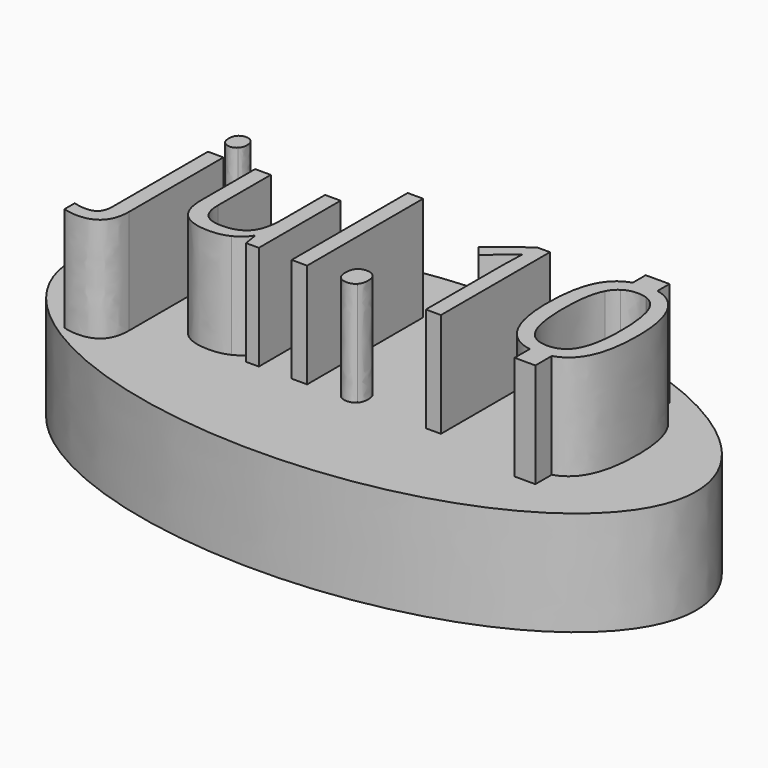
from build123d import *

# Parameters (mm, degrees)
F1_DEPTH = 25.4
F2_W     = 3.7600229511
F2_H     = 35.2311977096
F3_DEPTH = 25.4


with BuildPart() as f1:
    # F0 (on Top) → F1 (new body)
    with BuildSketch(Plane.XY):
        with BuildLine():
            add(Edge.make_bspline(
                [(-75.8589357138, 0), (-75.8589357138, -67.9441261937), (37.9294678569, -33.9720630968), (151.7178714275, 0), (37.9294678569, 33.9720630968), (-75.8589357138, 67.9441261937), (-75.8589357138, 0)],
                knots=[0, 0, 0, 2.0943951024, 2.0943951024, 4.1887902048, 4.1887902048, 6.2831853072, 6.2831853072, 6.2831853072], degree=2, weights=[1, 0.5, 1, 0.5, 1, 0.5, 1]))
        make_face()
    extrude(amount=F1_DEPTH)

    # F2 (on face) → F3 (join)
    with BuildSketch(Plane.XY.offset(25.4)):
        with BuildLine():
            Line((49.1091273725, 25.3086201847), (43.3321334422, 25.3086201847))
            Line((43.3321334422, 25.3086201847), (43.3321334422, 21.3823506841))
            add(Edge.make_bspline(
                [(43.3321334422, 21.3823506841), (44.8894074559, 21.8723493721), (46.7770176638, 21.8723493721)],
                knots=[0.6580723607, 0.6580723607, 0.6580723607, 1, 1, 1], degree=2))
            add(Edge.make_bspline(
                [(46.7770176638, 21.8723493721), (48.0110450801, 21.8723493721), (49.1091273725, 21.6431793101)],
                knots=[0, 0, 0, 0.2289437199, 0.2289437199, 0.2289437199], degree=2))
            Line((49.1091273725, 21.6431793101), (49.1091273725, 25.3086201847))
        make_face()
        with BuildLine():
            add(Edge.make_bspline(
                [(43.3321334422, 21.3823506841), (44.8894074559, 21.8723493721), (46.7770176638, 21.8723493721)],
                knots=[0.6580723607, 0.6580723607, 0.6580723607, 1, 1, 1], degree=2))
            Line((43.3321334422, 21.3823506841), (43.3321334422, 17.641407551))
            add(Edge.make_bspline(
                [(46.7770176638, 18.6122138653), (44.7562380644, 18.6122138653), (43.3321334422, 17.641407551)],
                knots=[0, 0, 0, 0.5447858889, 0.5447858889, 0.5447858889], degree=2))
            add(Edge.make_bspline(
                [(49.1091273725, 18.2229892834), (48.0648114294, 18.6122138653), (46.7770176638, 18.6122138653)],
                knots=[0.6575037487, 0.6575037487, 0.6575037487, 1, 1, 1], degree=2))
            Line((49.1091273725, 18.2229892834), (49.1091273725, 21.6431793101))
            add(Edge.make_bspline(
                [(46.7770176638, 21.8723493721), (48.0110450801, 21.8723493721), (49.1091273725, 21.6431793101)],
                knots=[0, 0, 0, 0.2289437199, 0.2289437199, 0.2289437199], degree=2))
        make_face()
        with BuildLine():
            Line((43.3321334422, 17.641407551), (43.3321334422, 21.3823506841))
            add(Edge.make_bspline(
                [(38.5614761868, 17.6812640595), (40.3350110439, 20.4393014649), (43.3321334422, 21.3823506841)],
                knots=[0, 0, 0, 0.6580723607, 0.6580723607, 0.6580723607], degree=2))
            add(Edge.make_bspline(
                [(35.8664308346, 4.8471972813), (35.8664308346, 13.490178747), (38.5614761868, 17.6812640595)],
                knots=[0, 0, 0, 1, 1, 1], degree=2))
            add(Edge.make_bspline(
                [(38.6520355065, -7.8709535678), (35.8664308346, -3.5349733438), (35.8664308346, 4.8471972813)],
                knots=[0, 0, 0, 1, 1, 1], degree=2))
            add(Edge.make_bspline(
                [(45.111361891, -12.0927522689), (40.9856034206, -11.5033083055), (38.6520355065, -7.8709535678)],
                knots=[0.1622759907, 0.1622759907, 0.1622759907, 1, 1, 1], degree=2))
            Line((45.111361891, -12.0927522689), (45.111361891, -8.7784201274))
            add(Edge.make_bspline(
                [(41.3688150954, -5.6721732871), (42.6597137841, -8.1769020861), (45.111361891, -8.7784201274)],
                knots=[0, 0, 0, 0.7598470375, 0.7598470375, 0.7598470375], degree=2))
            add(Edge.make_bspline(
                [(39.6699222591, 4.8471972813), (39.6699222591, -2.3758140525), (41.3688150954, -5.6721732871)],
                knots=[0, 0, 0, 1, 1, 1], degree=2))
            add(Edge.make_bspline(
                [(41.3688150954, 15.3412112402), (39.6699222591, 12.0702086151), (39.6699222591, 4.8471972813)],
                knots=[0, 0, 0, 1, 1, 1], degree=2))
            add(Edge.make_bspline(
                [(43.3321334422, 17.641407551), (42.1421750878, 16.8302177928), (41.3688150954, 15.3412112402)],
                knots=[0.5447858889, 0.5447858889, 0.5447858889, 1, 1, 1], degree=2))
        make_face()
        with BuildLine():
            add(Edge.make_bspline(
                [(49.1091273725, 21.6431793101), (52.8073430224, 20.8713607354), (54.9635801585, 17.5001454202)],
                knots=[0.2289437199, 0.2289437199, 0.2289437199, 1, 1, 1], degree=2))
            Line((49.1091273725, 21.6431793101), (49.1091273725, 18.2229892834))
            add(Edge.make_bspline(
                [(52.2214439601, 15.294120394), (51.1139424464, 17.4757792899), (49.1091273725, 18.2229892834)],
                knots=[0, 0, 0, 0.6575037487, 0.6575037487, 0.6575037487], degree=2))
            add(Edge.make_bspline(
                [(53.9058473052, 4.8471972813), (53.9058473052, 11.9760269227), (52.2214439601, 15.294120394)],
                knots=[0, 0, 0, 1, 1, 1], degree=2))
            add(Edge.make_bspline(
                [(52.2214439601, -5.6287048137), (53.9058473052, -2.2888771057), (53.9058473052, 4.8471972813)],
                knots=[0, 0, 0, 1, 1, 1], degree=2))
            add(Edge.make_bspline(
                [(50.1478388906, -8.0513437212), (51.4197412419, -7.2183175151), (52.2214439601, -5.6287048137)],
                knots=[0.5240435015, 0.5240435015, 0.5240435015, 1, 1, 1], degree=2))
            Line((50.1478388906, -8.0513437212), (50.1478388906, -11.7440203937))
            add(Edge.make_bspline(
                [(55.0541394782, -7.9723800058), (53.2428906583, -10.8068510506), (50.1478388906, -11.7440203937)],
                knots=[0, 0, 0, 0.6693671135, 0.6693671135, 0.6693671135], degree=2))
            add(Edge.make_bspline(
                [(57.7600519488, 4.8471972813), (57.7600519488, -3.7378262198), (55.0541394782, -7.9723800058)],
                knots=[0, 0, 0, 1, 1, 1], degree=2))
            add(Edge.make_bspline(
                [(54.9635801585, 17.5001454202), (57.7600519488, 13.1279414684), (57.7600519488, 4.8471972813)],
                knots=[0, 0, 0, 1, 1, 1], degree=2))
        make_face()
        with BuildLine():
            add(Edge.make_bspline(
                [(46.7770176638, -12.2069337918), (45.9105648929, -12.2069337918), (45.111361891, -12.0927522689)],
                knots=[0, 0, 0, 0.1622759907, 0.1622759907, 0.1622759907], degree=2))
            Line((45.111361891, -12.0927522689), (45.111361891, -16.7178791016))
            Line((45.111361891, -16.7178791016), (50.1478388906, -16.7178791016))
            Line((50.1478388906, -16.7178791016), (50.1478388906, -11.7440203937))
            add(Edge.make_bspline(
                [(50.1478388906, -11.7440203937), (48.6190426903, -12.2069337918), (46.7770176638, -12.2069337918)],
                knots=[0.6693671135, 0.6693671135, 0.6693671135, 1, 1, 1], degree=2))
        make_face()
        with BuildLine():
            Line((45.111361891, -8.7784201274), (45.111361891, -12.0927522689))
            add(Edge.make_bspline(
                [(46.7770176638, -12.2069337918), (45.9105648929, -12.2069337918), (45.111361891, -12.0927522689)],
                knots=[0, 0, 0, 0.1622759907, 0.1622759907, 0.1622759907], degree=2))
            add(Edge.make_bspline(
                [(50.1478388906, -11.7440203937), (48.6190426903, -12.2069337918), (46.7770176638, -12.2069337918)],
                knots=[0.6693671135, 0.6693671135, 0.6693671135, 1, 1, 1], degree=2))
            Line((50.1478388906, -11.7440203937), (50.1478388906, -8.0513437212))
            add(Edge.make_bspline(
                [(46.7770176638, -8.9685325217), (48.747433257, -8.9685325217), (50.1478388906, -8.0513437212)],
                knots=[0, 0, 0, 0.5240435015, 0.5240435015, 0.5240435015], degree=2))
            add(Edge.make_bspline(
                [(45.111361891, -8.7784201274), (45.8862159429, -8.9685325217), (46.7770176638, -8.9685325217)],
                knots=[0.7598470375, 0.7598470375, 0.7598470375, 1, 1, 1], degree=2))
        make_face()
        with BuildLine():
            add(Edge.make_bspline(
                [(-56.2360196037, -22.8929335083), (-58.3877090382, -22.8929335083), (-59.7207422232, -22.3205986082)],
                knots=[0, 0, 0, 1, 1, 1], degree=2))
            add(Edge.make_bspline(
                [(-49.4621824953, -15.5540062454), (-49.4621824953, -22.8929335083), (-56.2360196037, -22.8929335083)],
                knots=[0, 0, 0, 1, 1, 1], degree=2))
            Line((-49.4621824953, -15.5540062454), (-49.4621824953, 13.0627387583))
            Line((-49.4621824953, 13.0627387583), (-53.2222054464, 13.0627387583))
            Line((-53.2222054464, 13.0627387583), (-53.2222054464, -15.829306577))
            add(Edge.make_bspline(
                [(-54.0481064414, -18.7561837875), (-53.2222054464, -17.7926326267), (-53.2222054464, -15.829306577)],
                knots=[0, 0, 0, 1, 1, 1], degree=2))
            add(Edge.make_bspline(
                [(-56.6417253557, -19.7197349484), (-54.8740074365, -19.7197349484), (-54.0481064414, -18.7561837875)],
                knots=[0, 0, 0, 1, 1, 1], degree=2))
            add(Edge.make_bspline(
                [(-59.7207422232, -19.270560723), (-58.1558771799, -19.7197349484), (-56.6417253557, -19.7197349484)],
                knots=[0, 0, 0, 1, 1, 1], degree=2))
            Line((-59.7207422232, -19.270560723), (-59.7207422232, -22.3205986082))
        make_face()
        with BuildLine():
            add(Edge.make_bspline(
                [(-53.5409742515, 19.7858626478), (-53.5409742515, 21.0754273593), (-52.9070590141, 21.6767412417)],
                knots=[0, 0, 0, 1, 1, 1], degree=2))
            add(Edge.make_bspline(
                [(-52.9070590141, 17.8949840538), (-53.5409742515, 18.5180321729), (-53.5409742515, 19.7858626478)],
                knots=[0, 0, 0, 1, 1, 1], degree=2))
            add(Edge.make_bspline(
                [(-51.3168373613, 17.2719359348), (-52.2731437766, 17.2719359348), (-52.9070590141, 17.8949840538)],
                knots=[0, 0, 0, 1, 1, 1], degree=2))
            add(Edge.make_bspline(
                [(-49.7555946909, 17.8949840538), (-50.411244165, 17.2719359348), (-51.3168373613, 17.2719359348)],
                knots=[0, 0, 0, 1, 1, 1], degree=2))
            add(Edge.make_bspline(
                [(-49.0999452167, 19.7858626478), (-49.0999452167, 18.5180321729), (-49.7555946909, 17.8949840538)],
                knots=[0, 0, 0, 1, 1, 1], degree=2))
            add(Edge.make_bspline(
                [(-49.7555946909, 21.6658741233), (-49.0999452167, 21.0536931226), (-49.0999452167, 19.7858626478)],
                knots=[0, 0, 0, 1, 1, 1], degree=2))
            add(Edge.make_bspline(
                [(-51.3168373613, 22.278055124), (-50.411244165, 22.278055124), (-49.7555946909, 21.6658741233)],
                knots=[0, 0, 0, 1, 1, 1], degree=2))
            add(Edge.make_bspline(
                [(-52.9070590141, 21.6767412417), (-52.2731437766, 22.278055124), (-51.3168373613, 22.278055124)],
                knots=[0, 0, 0, 1, 1, 1], degree=2))
        make_face()
        with BuildLine():
            Line((-37.9575265293, -3.0350858995), (-37.9575265293, 13.0627387583))
            Line((-37.9575265293, 13.0627387583), (-41.7610179538, 13.0627387583))
            Line((-41.7610179538, 13.0627387583), (-41.7610179538, -3.1727360653))
            add(Edge.make_bspline(
                [(-39.5115244541, -10.0552443573), (-41.7610179538, -7.9035549229), (-41.7610179538, -3.1727360653)],
                knots=[0, 0, 0, 1, 1, 1], degree=2))
            add(Edge.make_bspline(
                [(-32.7340649729, -12.2069337918), (-37.2620309545, -12.2069337918), (-39.5115244541, -10.0552443573)],
                knots=[0, 0, 0, 1, 1, 1], degree=2))
            add(Edge.make_bspline(
                [(-28.0539593343, -11.2325155125), (-30.1042223308, -12.2069337918), (-32.7340649729, -12.2069337918)],
                knots=[0, 0, 0, 1, 1, 1], degree=2))
            add(Edge.make_bspline(
                [(-24.8517817921, -8.4251766039), (-26.0036963379, -10.2580972333), (-28.0539593343, -11.2325155125)],
                knots=[0, 0, 0, 1, 1, 1], degree=2))
            Line((-24.8517817921, -8.4251766039), (-24.6489289162, -8.4251766039))
            Line((-24.6489289162, -8.4251766039), (-24.1055729984, -11.7505148208))
            Line((-24.1055729984, -11.7505148208), (-21.0048218942, -11.7505148208))
            Line((-21.0048218942, -11.7505148208), (-21.0048218942, 13.0627387583))
            Line((-21.0048218942, 13.0627387583), (-24.7648448453, 13.0627387583))
            Line((-24.7648448453, 13.0627387583), (-24.7648448453, 0.0221967313))
            add(Edge.make_bspline(
                [(-26.5615417468, -6.9291366436), (-24.7648448453, -4.8028038187), (-24.7648448453, 0.0221967313)],
                knots=[0, 0, 0, 1, 1, 1], degree=2))
            add(Edge.make_bspline(
                [(-32.2559117652, -9.0554694686), (-28.3582386483, -9.0554694686), (-26.5615417468, -6.9291366436)],
                knots=[0, 0, 0, 1, 1, 1], degree=2))
            add(Edge.make_bspline(
                [(-36.5774024981, -7.563051881), (-35.1972784669, -9.0554694686), (-32.2559117652, -9.0554694686)],
                knots=[0, 0, 0, 1, 1, 1], degree=2))
            add(Edge.make_bspline(
                [(-37.9575265293, -3.0350858995), (-37.9575265293, -6.0706342935), (-36.5774024981, -7.563051881)],
                knots=[0, 0, 0, 1, 1, 1], degree=2))
        make_face()
        with Locations((-11.155590291, 5.865084034)):
            Rectangle(F2_W, F2_H)
        with BuildLine():
            add(Edge.make_bspline(
                [(-1.8497146057, -9.352504037), (-1.8497146057, -7.8311074672), (-1.1578414037, -7.0522973183)],
                knots=[0, 0, 0, 1, 1, 1], degree=2))
            add(Edge.make_bspline(
                [(-1.0926386935, -11.696179229), (-1.8497146057, -10.9825717903), (-1.8497146057, -9.352504037)],
                knots=[0, 0, 0, 1, 1, 1], degree=2))
            add(Edge.make_bspline(
                [(0.8235965099, -12.4097866677), (-0.3355627814, -12.4097866677), (-1.0926386935, -11.696179229)],
                knots=[0, 0, 0, 1, 1, 1], degree=2))
            add(Edge.make_bspline(
                [(2.8593700152, -11.6164870278), (2.1131612214, -12.4097866677), (0.8235965099, -12.4097866677)],
                knots=[0, 0, 0, 1, 1, 1], degree=2))
            add(Edge.make_bspline(
                [(3.605578809, -9.352504037), (3.605578809, -10.8231873878), (2.8593700152, -11.6164870278)],
                knots=[0, 0, 0, 1, 1, 1], degree=2))
            add(Edge.make_bspline(
                [(2.8702371335, -7.0522973183), (3.605578809, -7.8311074672), (3.605578809, -9.352504037)],
                knots=[0, 0, 0, 1, 1, 1], degree=2))
            add(Edge.make_bspline(
                [(0.8235965099, -6.2734871695), (2.1348954581, -6.2734871695), (2.8702371335, -7.0522973183)],
                knots=[0, 0, 0, 1, 1, 1], degree=2))
            add(Edge.make_bspline(
                [(-1.1578414037, -7.0522973183), (-0.4659682017, -6.2734871695), (0.8235965099, -6.2734871695)],
                knots=[0, 0, 0, 1, 1, 1], degree=2))
        make_face()
        with BuildLine():
            Line((19.5657533009, -11.7505148208), (23.2315945596, -11.7505148208))
            Line((23.2315945596, -11.7505148208), (23.2315945596, 21.350727691))
            Line((23.2315945596, 21.350727691), (20.0656407452, 21.350727691))
            Line((20.0656407452, 21.350727691), (11.3067433504, 14.5768905825))
            Line((11.3067433504, 14.5768905825), (13.2990483823, 11.9977611594))
            add(Edge.make_bspline(
                [(18.685516714, 16.4134335847), (18.09506995, 15.8954342764), (13.2990483823, 11.9977611594)],
                knots=[0, 0, 0, 1, 1, 1], degree=2))
            add(Edge.make_bspline(
                [(19.7468719401, 17.4095861006), (19.275963478, 16.931432893), (18.685516714, 16.4134335847)],
                knots=[0, 0, 0, 1, 1, 1], degree=2))
            add(Edge.make_bspline(
                [(19.5657533009, 11.8383767569), (19.5657533009, 14.7869882041), (19.7468719401, 17.4095861006)],
                knots=[0, 0, 0, 1, 1, 1], degree=2))
            Line((19.5657533009, 11.8383767569), (19.5657533009, -11.7505148208))
        make_face()
    extrude(amount=F3_DEPTH)


solid = f1.part
